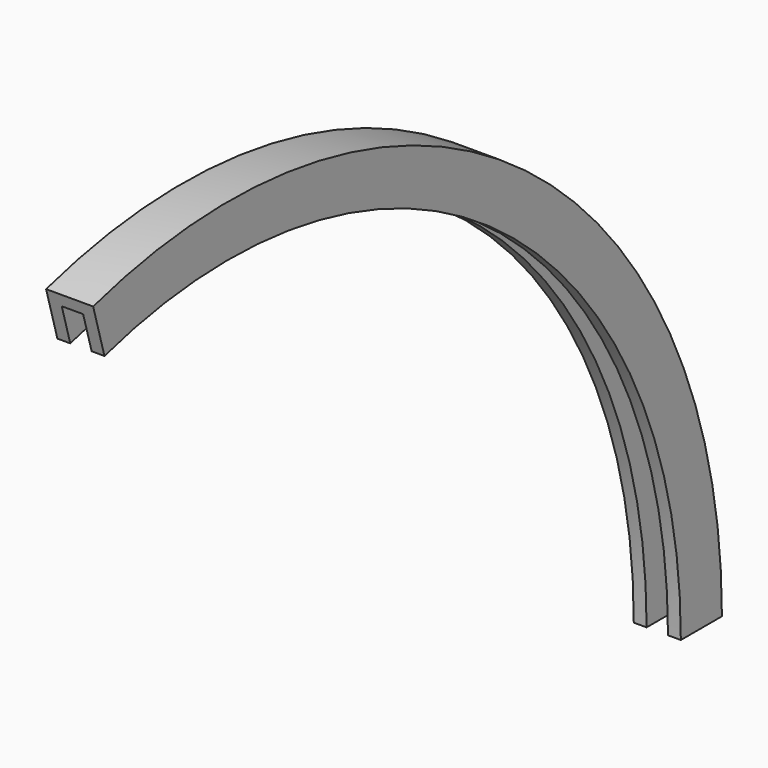
from build123d import *

# Parameters (mm, degrees)
F2_ANGLE = 106


with BuildPart() as f2:
    # F0 (on Top) → F2 (revolve)
    with BuildSketch(Plane.XY):
        Polygon((5.3707003258, 12), (-5.6292996742, 12), (-5.6292996742, 0), (-2.6292996742, 0), (-2.6292996742, 9), (2.3707003258, 9), (2.3707003258, 0), (5.3707003258, 0), align=None)
    revolve(axis=Axis((0, -132, 0), (1, 0, 0)), revolution_arc=F2_ANGLE)


solid = f2.part
